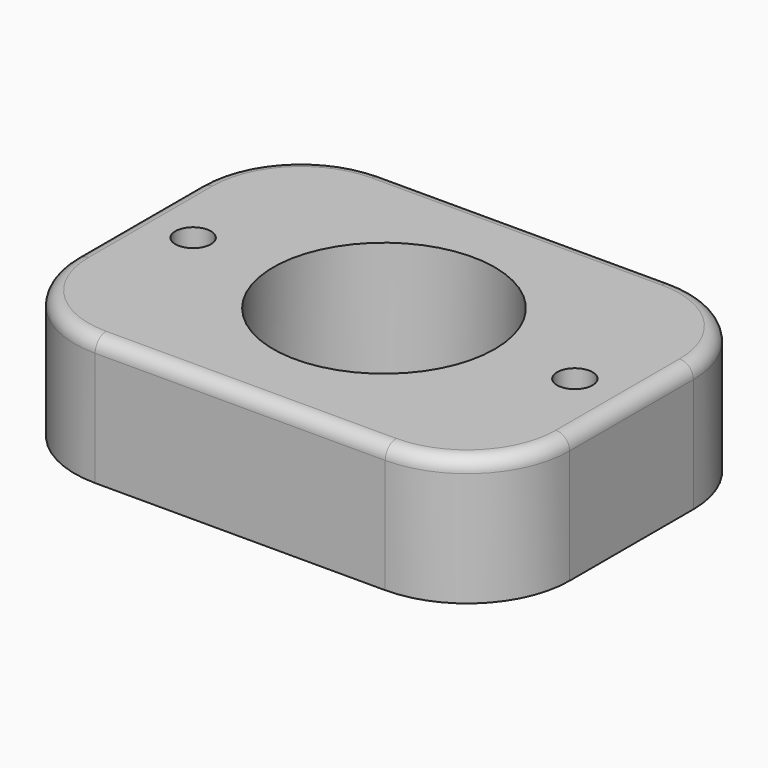
from build123d import *

# Parameters (mm, degrees)
F0_R     = 2.286
F0_R_2   = 14.2875
F1_DEPTH = 16.51
F2_R     = 1.778


with BuildPart() as f1:
    # F0 (on Top) → F1 (new body)
    with BuildSketch(Plane.XY):
        with BuildLine():
            Line((-18.70075, -23.1775), (18.70075, -23.1775))
            ThreePointArc((18.70075, -23.1775), (28.0402163659, -19.3089663659), (31.90875, -9.9695))
            Line((31.90875, -9.9695), (31.90875, 9.9695))
            ThreePointArc((31.90875, 9.9695), (28.0402163659, 19.3089663659), (18.70075, 23.1775))
            Line((18.70075, 23.1775), (-18.70075, 23.1775))
            ThreePointArc((-18.70075, 23.1775), (-28.0402163659, 19.3089663659), (-31.90875, 9.9695))
            Line((-31.90875, 9.9695), (-31.90875, -9.9695))
            ThreePointArc((-31.90875, -9.9695), (-28.0402163659, -19.3089663659), (-18.70075, -23.1775))
        make_face()
        with BuildLine():
            Line((-18.70075, 20.6375), (18.70075, 20.6375))
            ThreePointArc((18.70075, 20.6375), (26.2441651417, 17.5129151417), (29.36875, 9.9695))
            Line((29.36875, 9.9695), (29.36875, -9.9695))
            ThreePointArc((29.36875, -9.9695), (26.2441651417, -17.5129151417), (18.70075, -20.6375))
            Line((18.70075, -20.6375), (-18.70075, -20.6375))
            ThreePointArc((-18.70075, -20.6375), (-26.2441651417, -17.5129151417), (-29.36875, -9.9695))
            Line((-29.36875, -9.9695), (-29.36875, 9.9695))
            ThreePointArc((-29.36875, 9.9695), (-26.2441651417, 17.5129151417), (-18.70075, 20.6375))
        make_face(mode=Mode.SUBTRACT)
        with BuildLine():
            ThreePointArc((29.36875, 9.9695), (26.2441651417, 17.5129151417), (18.70075, 20.6375))
            Line((18.70075, 20.6375), (-18.70075, 20.6375))
            ThreePointArc((-18.70075, 20.6375), (-26.2441651417, 17.5129151417), (-29.36875, 9.9695))
            Line((-29.36875, 9.9695), (-29.36875, -9.9695))
            ThreePointArc((-29.36875, -9.9695), (-26.2441651417, -17.5129151417), (-18.70075, -20.6375))
            Line((-18.70075, -20.6375), (18.70075, -20.6375))
            ThreePointArc((18.70075, -20.6375), (26.2441651417, -17.5129151417), (29.36875, -9.9695))
            Line((29.36875, -9.9695), (29.36875, 9.9695))
        make_face()
        with Locations((-24.60625, 0)):
            Circle(F0_R, mode=Mode.SUBTRACT)
        Circle(F0_R_2, mode=Mode.SUBTRACT)
        with Locations((24.60625, 0)):
            Circle(F0_R, mode=Mode.SUBTRACT)
    extrude(amount=F1_DEPTH)

    # F2
    f2_edges = [f1.edges().sort_by_distance(p)[0] for p in [
        (28.040216, 19.308966, 16.51),
    ]]
    fillet(f2_edges, radius=F2_R)


solid = f1.part
